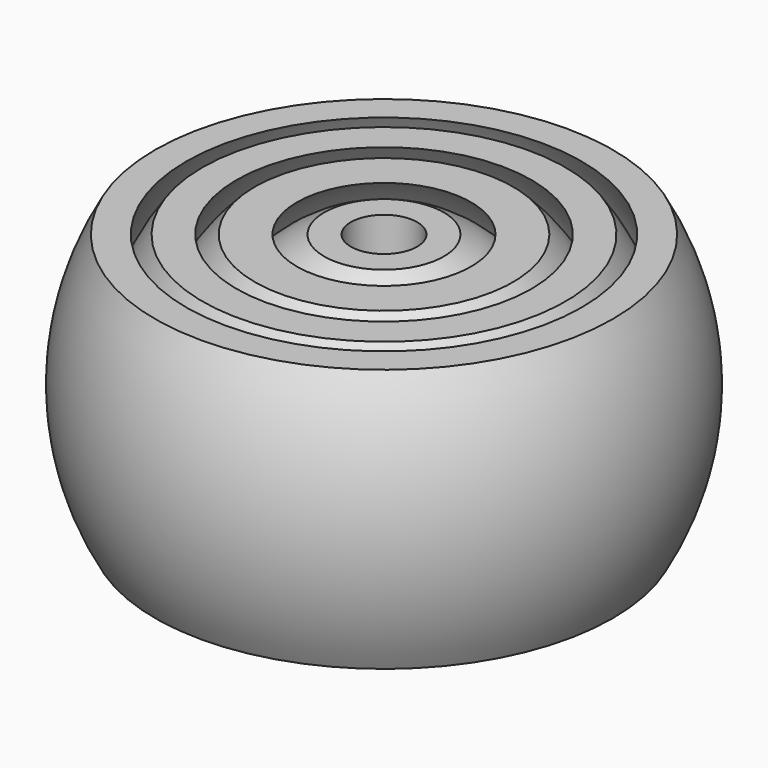
from build123d import *


with BuildPart() as f1:
    # F0 (on Front) → F1 (revolve)
    with BuildSketch(Plane.XZ):
        with BuildLine():
            Line((-2, 7.9332899209), (-3.6, 7.9332899209))
            ThreePointArc((-3.6, 7.9332899209), (-8.7118935352, 0), (-3.6, -7.9332899209))
            Line((-3.6, -7.9332899209), (-2, -7.9332899209))
            Line((-2, -7.9332899209), (-2, 0))
            Line((-2, 0), (-2, 7.9332899209))
        make_face()
        with BuildLine():
            Line((-2, -7.9332899209), (0, -7.9332899209))
            Line((0, -7.9332899209), (0, -2.8791130793))
            Line((0, -2.8791130793), (-1.4386796007, -1.3893167409))
            ThreePointArc((-1.4386796007, -1.3893167409), (-1.8543677091, -0.7492131868), (-2, 0))
            Line((-2, 0), (-2, -7.9332899209))
        make_face()
    revolve(axis=Axis((0, 0, -1.2736130784), (0, 0, -1)))


with BuildPart() as f1b:
    # F0 (on Front) → F1, piece 2 (revolve)
    with BuildSketch(Plane.XZ):
        with BuildLine():
            ThreePointArc((-5.2477642531, -7.9332899209), (-9.5118935352, 0), (-5.2477642531, 7.9332899209))
            Line((-5.2477642531, 7.9332899209), (-7.780558397, 7.9332899209))
            ThreePointArc((-7.780558397, 7.9332899209), (-11.1118935352, 0), (-7.780558397, -7.9332899209))
            Line((-7.780558397, -7.9332899209), (-5.2477642531, -7.9332899209))
        make_face()
    revolve(axis=Axis((0, 0, -1.2736130784), (0, 0, -1)))


with BuildPart() as f1c:
    # F0 (on Front) → F1, piece 3 (revolve)
    with BuildSketch(Plane.XZ):
        with BuildLine():
            ThreePointArc((-8.8857255542, -7.9332899209), (-11.9118935352, 0), (-8.8857255542, 7.9332899209))
            Line((-8.8857255542, 7.9332899209), (-10.9377409888, 7.9332899209))
            ThreePointArc((-10.9377409888, 7.9332899209), (-13.5118935352, 0), (-10.9377409888, -7.9332899209))
            Line((-10.9377409888, -7.9332899209), (-8.8857255542, -7.9332899209))
        make_face()
    revolve(axis=Axis((0, 0, -1.2736130784), (0, 0, -1)))


with BuildPart() as f1d:
    # F0 (on Front) → F1, piece 4 (revolve)
    with BuildSketch(Plane.XZ):
        with BuildLine():
            ThreePointArc((-11.9118935352, -7.9332899209), (-14.3118935352, 0), (-11.9118935352, 7.9332899209))
            Line((-11.9118935352, 7.9332899209), (-13.7931601494, 7.9332899209))
            ThreePointArc((-13.7931601494, 7.9332899209), (-15.9118935352, 0), (-13.7931601494, -7.9332899209))
            Line((-13.7931601494, -7.9332899209), (-11.9118935352, -7.9332899209))
        make_face()
    revolve(axis=Axis((0, 0, -1.2736130784), (0, 0, -1)))


solid = Compound([f1.part, f1b.part, f1c.part, f1d.part])
